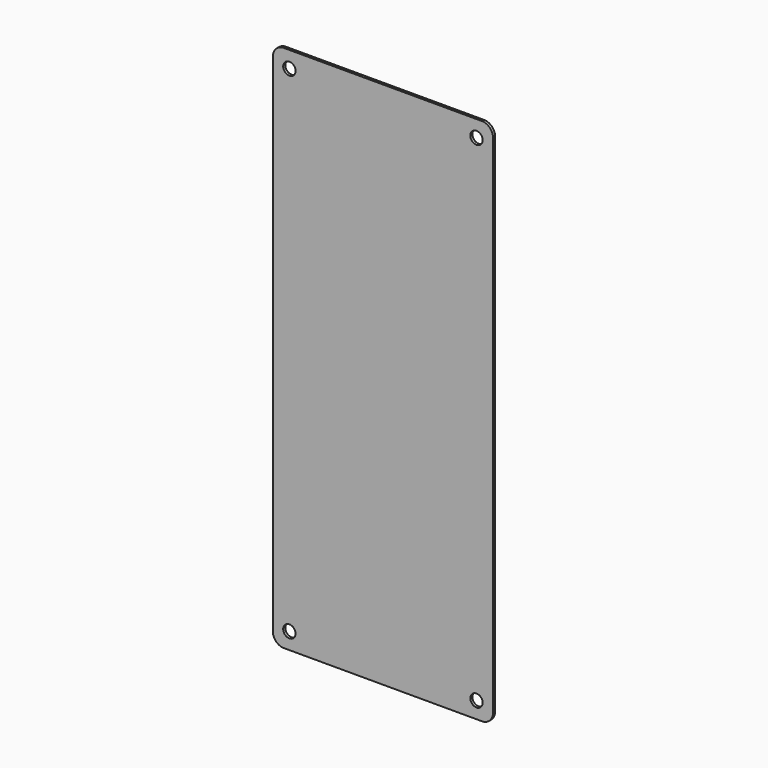
from build123d import *

# Parameters (mm, degrees)
F1_DEPTH = 1.524


with BuildPart() as f1:
    # F0 (on Front) → F1 (new body)
    with BuildSketch(Plane.XZ):
        with BuildLine():
            Line((-97.17259, 262.83665), (-100.34759, 262.83665))
            ThreePointArc((-100.34759, 262.83665), (-104.837718, 260.976778), (-106.69759, 256.48665))
            Line((-106.69759, 256.48665), (-106.69759, 253.31165))
            Line((-106.69759, 253.31165), (-100.74129, 253.31165))
            ThreePointArc((-100.74129, 253.31165), (-99.696042, 255.835102), (-97.17259, 256.88035))
            Line((-97.17259, 256.88035), (-97.17259, 262.83665))
        make_face()
        with BuildLine():
            Line((10.77741, 262.83665), (-97.17259, 262.83665))
            Line((-97.17259, 262.83665), (-97.17259, 256.88035))
            ThreePointArc((-97.17259, 256.88035), (-94.649138, 255.835102), (-93.60389, 253.31165))
            ThreePointArc((-93.60389, 253.31165), (-97.17259, 249.74295), (-100.74129, 253.31165))
            Line((-100.74129, 253.31165), (-106.69759, 253.31165))
            Line((-106.69759, 253.31165), (-106.69759, -32.43835))
            Line((-106.69759, -32.43835), (-100.74129, -32.43835))
            ThreePointArc((-100.74129, -32.43835), (-97.17259, -28.86965), (-93.60389, -32.43835))
            ThreePointArc((-93.60389, -32.43835), (-94.649138, -34.961802), (-97.17259, -36.00705))
            Line((-97.17259, -36.00705), (-97.17259, -41.96335))
            Line((-97.17259, -41.96335), (10.77741, -41.96335))
            Line((10.77741, -41.96335), (10.77741, -36.00705))
            ThreePointArc((10.77741, -36.00705), (8.253958, -29.914898), (14.34611, -32.43835))
            Line((14.34611, -32.43835), (20.30241, -32.43835))
            Line((20.30241, -32.43835), (20.30241, 253.31165))
            Line((20.30241, 253.31165), (14.34611, 253.31165))
            ThreePointArc((14.34611, 253.31165), (8.253958, 250.788198), (10.77741, 256.88035))
            Line((10.77741, 256.88035), (10.77741, 262.83665))
        make_face()
        with BuildLine():
            Line((13.95241, 262.83665), (10.77741, 262.83665))
            Line((10.77741, 262.83665), (10.77741, 256.88035))
            ThreePointArc((10.77741, 256.88035), (13.300862, 255.835102), (14.34611, 253.31165))
            Line((14.34611, 253.31165), (20.30241, 253.31165))
            Line((20.30241, 253.31165), (20.30241, 256.48665))
            ThreePointArc((20.30241, 256.48665), (18.442538, 260.976778), (13.95241, 262.83665))
        make_face()
        with BuildLine():
            Line((-100.74129, -32.43835), (-106.69759, -32.43835))
            Line((-106.69759, -32.43835), (-106.69759, -35.61335))
            ThreePointArc((-106.69759, -35.61335), (-104.837718, -40.103478), (-100.34759, -41.96335))
            Line((-100.34759, -41.96335), (-97.17259, -41.96335))
            Line((-97.17259, -41.96335), (-97.17259, -36.00705))
            ThreePointArc((-97.17259, -36.00705), (-99.696042, -34.961802), (-100.74129, -32.43835))
        make_face()
        with BuildLine():
            Line((20.30241, -35.61335), (20.30241, -32.43835))
            Line((20.30241, -32.43835), (14.34611, -32.43835))
            ThreePointArc((14.34611, -32.43835), (13.300862, -34.961802), (10.77741, -36.00705))
            Line((10.77741, -36.00705), (10.77741, -41.96335))
            Line((10.77741, -41.96335), (13.95241, -41.96335))
            ThreePointArc((13.95241, -41.96335), (18.442538, -40.103478), (20.30241, -35.61335))
        make_face()
    extrude(amount=F1_DEPTH)


solid = f1.part
